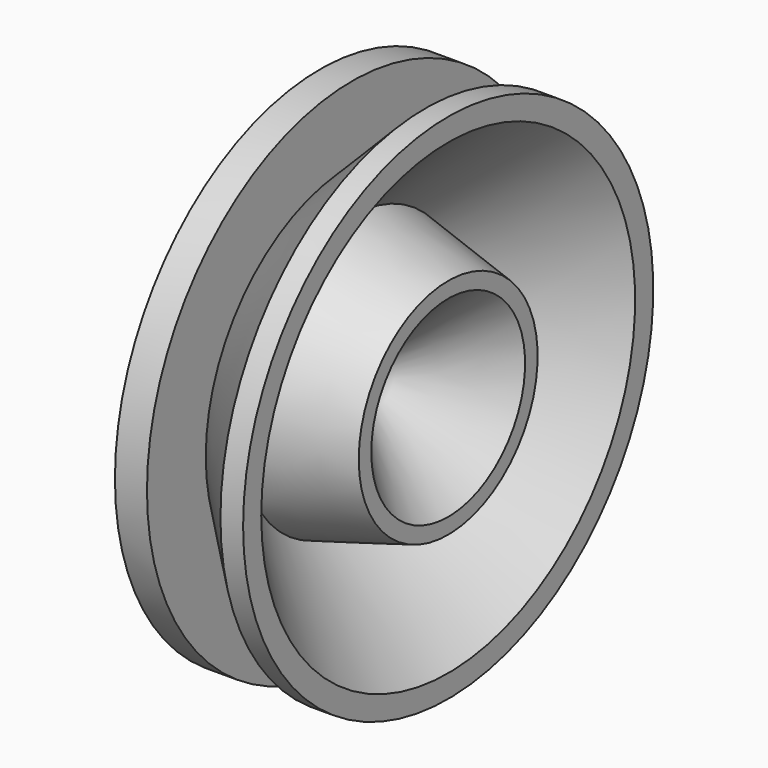
from build123d import *


with BuildPart() as f1:
    # F0 (on Top) → F1 (revolve)
    with BuildSketch(Plane.XY):
        Polygon((4, 0), (0, 0), (0, -32), (4, -32), (4, -22.828427), (13.171573, -32), (16, -32), (16, -29.171573), (4, -17.171573), (16, -13.956183), (16, -12), align=None)
        Polygon((4, -13.030468), (4, -5.656854), (9.815386, -11.47224), align=None, mode=Mode.SUBTRACT)
        Polygon((9.815386, -11.47224), (4, -5.656854), (4, -13.030468), align=None)
    revolve(axis=Axis((2, 0, 0), (-1, 0, 0)))


solid = f1.part
